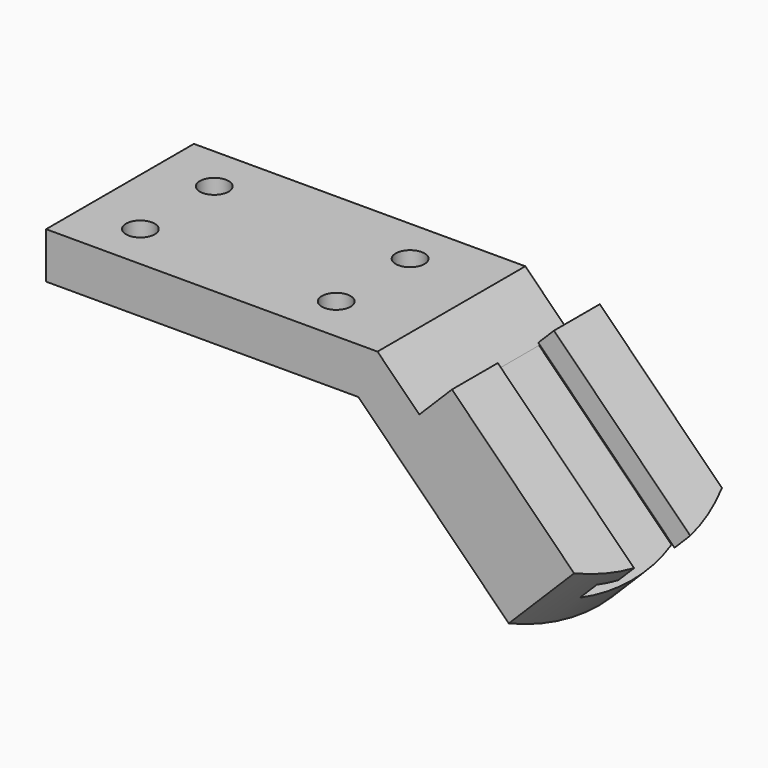
from build123d import *

# Parameters (mm, degrees)
F1_DEPTH       = 25.4
F3_D           = 7.9248
F3_CBORE_D     = 12.7
F3_CBORE_DEPTH = 6.096
F5_DEPTH       = 25.4
F7_DEPTH       = 66.549


with BuildPart() as f1:
    # F0 (on Front) → F1 (new body, symmetric)
    with BuildSketch(Plane.XZ):
        Polygon((-85.852, 12.7), (-85.852, 0), (0, 0), (45.85127, -45.85127), (63.811782, -27.890758), (25.735496, 10.185528), (16.75524, 1.205272), (5.260512, 12.7), align=None)
    extrude(amount=F1_DEPTH, both=True)

    # F3 (through all)
    with Locations(Plane(origin=(0, 0, 0), x_dir=(1, 0, 0), z_dir=(0, 0, -1))):
        with Locations((-70.104, 12.7), (-16.256, 12.7), (-70.104, -12.7), (-16.256, -12.7)):
            CounterBoreHole(F3_D / 2, F3_CBORE_D / 2, F3_CBORE_DEPTH)

    # F4 (on face) → F5 (cut)
    with BuildSketch(Plane(origin=(17.960512, 0, 17.960512), x_dir=(0.707107, 0, -0.707107), z_dir=(0.707107, 0, 0.707107))):
        with BuildLine():
            ThreePointArc((58.476506, 25.4), (63.227494, 13.092922), (64.843488, 0))
            Line((64.843488, 0), (64.843488, 25.4))
            Line((64.843488, 25.4), (58.476506, 25.4))
        make_face()
        with BuildLine():
            ThreePointArc((64.843488, 0), (63.227494, -13.092922), (58.476506, -25.4))
            Line((58.476506, -25.4), (64.843488, -25.4))
            Line((64.843488, -25.4), (64.843488, 0))
        make_face()
    extrude(amount=-F5_DEPTH, mode=Mode.SUBTRACT)

    # F6 (on face) → F7 (cut, through all)
    with BuildSketch(Plane(origin=(7.774984, 0, -7.774984), x_dir=(0, -1, 0), z_dir=(-0.707107, 0, 0.707107))):
        Polygon((9.652, 25.4), (-9.652, 25.4), (-9.652, 19.304), (-15.748, 19.304), (-15.748, 12.7), (15.748, 12.7), (15.748, 19.304), (9.652, 19.304), align=None)
    extrude(amount=-F7_DEPTH, mode=Mode.SUBTRACT)


solid = f1.part
